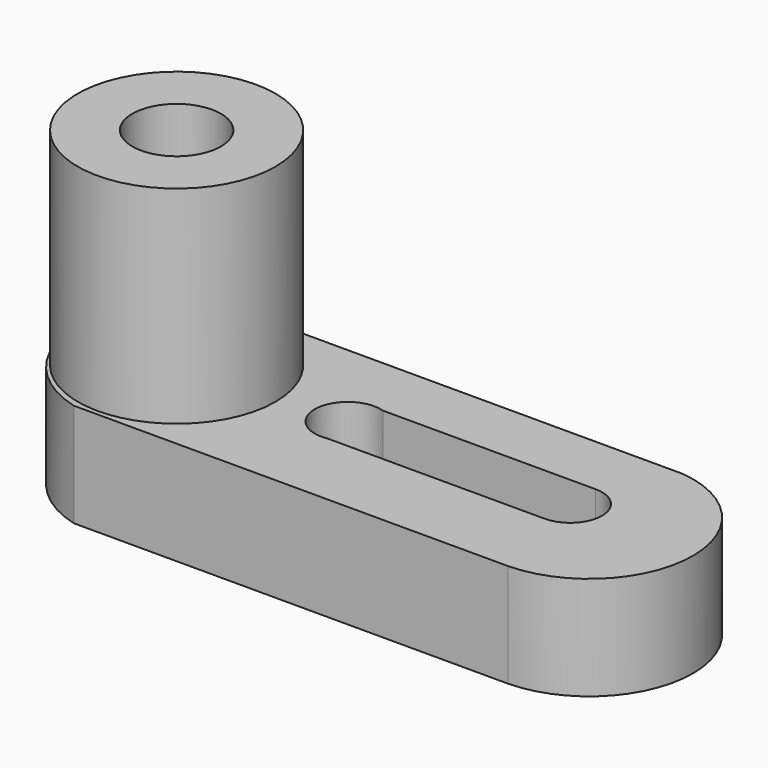
from build123d import *

# Parameters (mm, degrees)
F1_DEPTH = 25.4
F3_DEPTH = 25.4
F4_W     = 25.4
F4_H     = 25.4
F4_R     = 12.132292
F4_R_2   = 5.440565
F5_DEPTH = 25.4
F7_DEPTH = 25.4
F9_DEPTH = 25.4


with BuildPart() as f1:
    # F0 (on Front) → F1 (new body)
    with BuildSketch(Plane.XZ):
        Polygon((-6.258154, 24.359922), (-31.658154, 24.359922), (-31.658154, -13.740078), (44.541846, -13.740078), (44.541846, -1.040078), (-6.258154, -1.040078), align=None)
    extrude(amount=F1_DEPTH)

    # F2 (on face) → F3 (cut)
    with BuildSketch(Plane.XY.offset(-1.040078)):
        with BuildLine():
            ThreePointArc((32.971398, 0), (44.350376, -13.228424), (31.847373, -25.4))
            Line((31.847373, -25.4), (44.541846, -25.4))
            Line((44.541846, -25.4), (44.541846, 0))
            Line((44.541846, 0), (32.971398, 0))
        make_face()
    extrude(amount=-F3_DEPTH, mode=Mode.SUBTRACT)

    # F4 (on face) → F5 (cut)
    with BuildSketch(Plane.XY.offset(24.359922)):
        with Locations((-18.958154, -12.7)):
            Rectangle(F4_W, F4_H)
        with Locations((-18.958154, -12.7)):
            Circle(F4_R, mode=Mode.SUBTRACT)
        with Locations((-18.958154, -12.7)):
            Circle(F4_R_2)
    extrude(amount=-F5_DEPTH, mode=Mode.SUBTRACT)

    # F6 (on face) → F7 (cut)
    with BuildSketch(Plane.XY.offset(-1.040078)):
        with BuildLine():
            Line((-23.493964, 0), (-31.658154, 0))
            Line((-31.658154, 0), (-31.658154, -25.4))
            Line((-31.658154, -25.4), (-21.405611, -25.4))
            ThreePointArc((-21.405611, -25.4), (-31.43432, -13.438696), (-23.493964, 0))
        make_face()
    extrude(amount=-F7_DEPTH, mode=Mode.SUBTRACT)

    # F8 (on face) → F9 (cut)
    with BuildSketch(Plane.XY.offset(-1.040078)):
        with BuildLine():
            Line((28.453799, -7.700799), (2.349396, -7.700799))
            ThreePointArc((2.349396, -7.700799), (-2.926734, -11.282122), (1.827309, -15.532121))
            Line((1.827309, -15.532121), (28.453799, -15.532121))
            ThreePointArc((28.453799, -15.532121), (32.36946, -11.61646), (28.453799, -7.700799))
        make_face()
    extrude(amount=-F9_DEPTH, mode=Mode.SUBTRACT)


solid = f1.part
